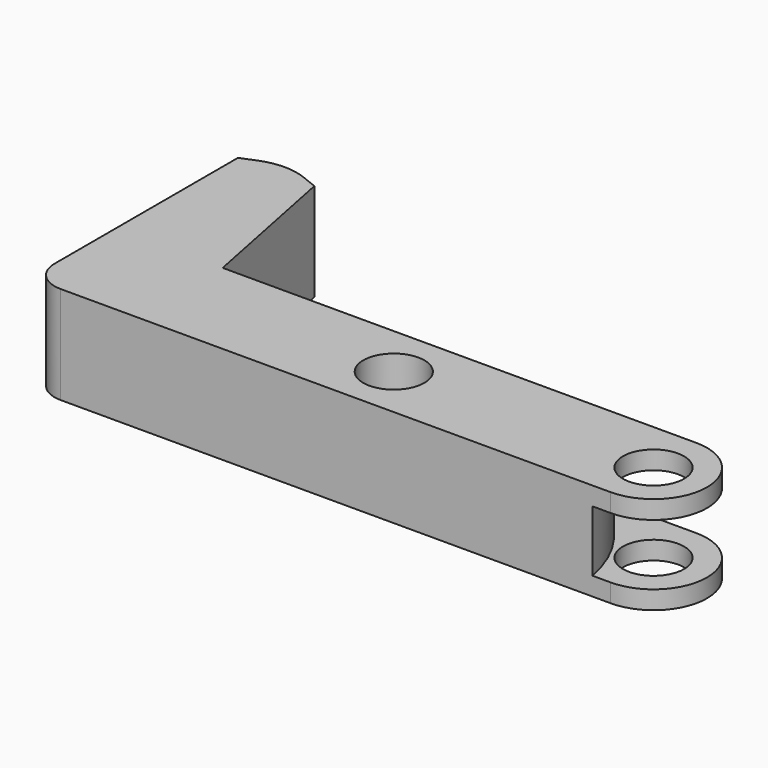
from build123d import *

# Parameters (mm, degrees)
F0_R     = 10
F1_DEPTH = 6
F2_DEPTH = 26
F3_DEPTH = 20


with BuildPart() as f1:
    # F0 (on Top) → F1 (new body)
    with BuildSketch(Plane.XY):
        with BuildLine():
            Line((-6, -17.5), (0, -17.5))
            ThreePointArc((0, -17.5), (17.5, 0), (0, 17.5))
            Line((0, 17.5), (-35, 17.5))
            ThreePointArc((-35, 17.5), (-15.938437, 3.77958), (-6, -17.5))
        make_face()
        Circle(F0_R, mode=Mode.SUBTRACT)
        with BuildLine():
            Line((-180, -17.5), (-6, -17.5))
            ThreePointArc((-6, -17.5), (-15.938437, 3.77958), (-35, 17.5))
            Line((-35, 17.5), (-155, 17.5))
            Line((-155, 17.5), (-165, 67.5))
            Line((-165, 67.5), (-190, 67.5))
            Line((-190, 67.5), (-190, -7.5))
            ThreePointArc((-190, -7.5), (-187.071068, -14.571068), (-180, -17.5))
        make_face()
        with Locations((-85, 0)):
            Circle(F0_R, mode=Mode.SUBTRACT)
        with BuildLine():
            Line((-190, 67.5), (-165, 67.5))
            Line((-165, 67.5), (-170.072186, 69.528875))
            ThreePointArc((-170.072186, 69.528875), (-177.5, 70.959341), (-184.927814, 69.528875))
            Line((-184.927814, 69.528875), (-190, 67.5))
        make_face()
    extrude(amount=-F1_DEPTH)

    # F0 (on Top) → F2 (join)
    with BuildSketch(Plane.XY):
        with BuildLine():
            Line((-6, -17.5), (0, -17.5))
            ThreePointArc((0, -17.5), (17.5, 0), (0, 17.5))
            Line((0, 17.5), (-35, 17.5))
            ThreePointArc((-35, 17.5), (-15.938437, 3.77958), (-6, -17.5))
        make_face()
        Circle(F0_R, mode=Mode.SUBTRACT)
        with BuildLine():
            Line((-180, -17.5), (-6, -17.5))
            ThreePointArc((-6, -17.5), (-15.938437, 3.77958), (-35, 17.5))
            Line((-35, 17.5), (-155, 17.5))
            Line((-155, 17.5), (-165, 67.5))
            Line((-165, 67.5), (-190, 67.5))
            Line((-190, 67.5), (-190, -7.5))
            ThreePointArc((-190, -7.5), (-187.071068, -14.571068), (-180, -17.5))
        make_face()
        with Locations((-85, 0)):
            Circle(F0_R, mode=Mode.SUBTRACT)
        with BuildLine():
            Line((-190, 67.5), (-165, 67.5))
            Line((-165, 67.5), (-170.072186, 69.528875))
            ThreePointArc((-170.072186, 69.528875), (-177.5, 70.959341), (-184.927814, 69.528875))
            Line((-184.927814, 69.528875), (-190, 67.5))
        make_face()
    extrude(amount=F2_DEPTH)

    # F0 (on Top) → F3 (cut)
    with BuildSketch(Plane.XY):
        with BuildLine():
            Line((-6, -17.5), (0, -17.5))
            ThreePointArc((0, -17.5), (17.5, 0), (0, 17.5))
            Line((0, 17.5), (-35, 17.5))
            ThreePointArc((-35, 17.5), (-15.938437, 3.77958), (-6, -17.5))
        make_face()
        Circle(F0_R, mode=Mode.SUBTRACT)
    extrude(amount=F3_DEPTH, mode=Mode.SUBTRACT)


solid = f1.part
